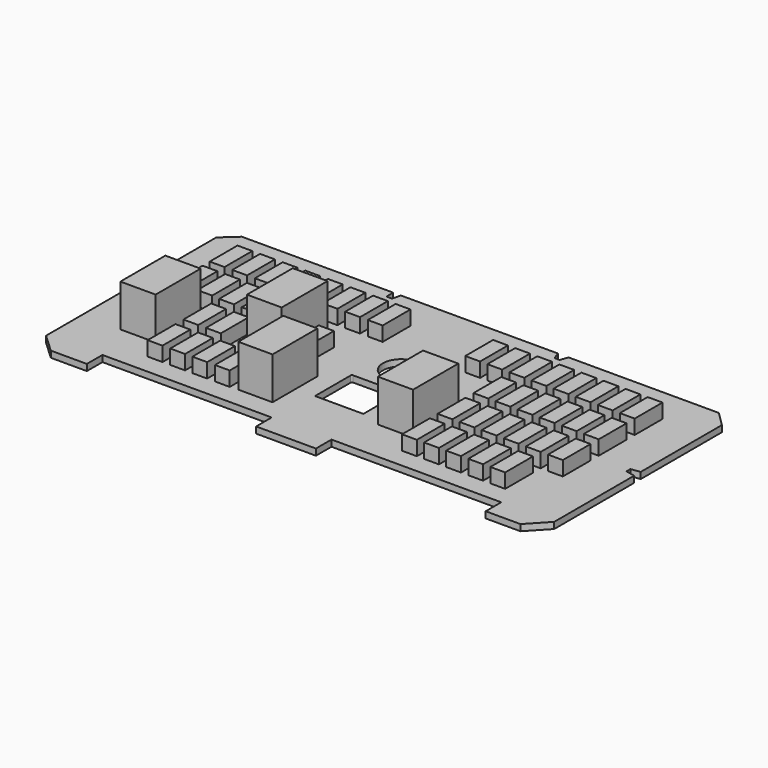
from build123d import *

# Parameters (mm, degrees)
F0_W     = 58.419227
F0_H     = 136.983085
F0_W_2   = 138.997555
F0_H_2   = 221.590325
F0_W_3   = 134.968639
F0_H_3   = 221.59028
F0_W_4   = 138.945207
F0_H_4   = 222.791448
F0_W_5   = 136.983097
F0_H_5   = 225.619205
F0_W_6   = 59.826314
F0_H_6   = 141.01921
F0_R     = 72.27809
F1_DEPTH = 25
F2_DEPTH = 82
F3_DEPTH = 191


with BuildPart() as f1:
    # F0 (on Top) → F1 (new body)
    with BuildSketch(Plane.XY):
        Polygon((-290.836811, 318.458557), (-887.116194, 318.458557), (-945.572436, 265.321642), (-945.572436, -134.427518), (-910.288393, -144.499809), (-910.288393, -161.622688), (-945.572436, -161.38947), (-945.572436, -572.571993), (-872.013628, -641.237497), (-729.988515, -641.237497), (-729.988515, -564.63474), (-63.203134, -564.63474), (-63.203134, -641.237497), (172.488362, -641.237497), (172.488362, -564.63474), (841.288209, -564.63474), (841.288209, -641.237497), (978.271306, -641.237497), (1050.024033, -564.63474), (1050.024033, -170.783788), (1013.263464, -163.161024), (1013.263464, -143.680587), (1050.024033, -138.59874), (1050.024033, 261.292726), (992.372513, 318.458557), (400.122046, 318.458557), (389.548242, 287.793189), (369.40366, 287.793189), (357.818455, 318.458557), (-260.619938, 318.458557), (-268.289, 284.986019), (-290.836811, 284.986019), align=None)
        with Locations((-585.227046, -417.791572)):
            Rectangle(F0_W, F0_H, mode=Mode.SUBTRACT)
        with Locations((-496.227045, -417.791572)):
            Rectangle(F0_W, F0_H, mode=Mode.SUBTRACT)
        with Locations((-409.227045, -417.791572)):
            Rectangle(F0_W, F0_H, mode=Mode.SUBTRACT)
        with Locations((-320.227045, -417.791572)):
            Rectangle(F0_W, F0_H, mode=Mode.SUBTRACT)
        with Locations((-723.563492, -286.638654)):
            Rectangle(F0_W_2, F0_H_2, mode=Mode.SUBTRACT)
        with Locations((-585.227046, -241.791573)):
            Rectangle(F0_W, F0_H, mode=Mode.SUBTRACT)
        with Locations((-496.227045, -241.791573)):
            Rectangle(F0_W, F0_H, mode=Mode.SUBTRACT)
        with Locations((-191.746771, -373.260319)):
            Rectangle(F0_W_3, F0_H_3, mode=Mode.SUBTRACT)
        with BuildLine():
            ThreePointArc((-48.252605, -193.939795), (-46.788139, -190.404261), (-43.252605, -188.939795))
            Line((-43.252605, -188.939795), (142.198145, -188.939795))
            Line((142.198145, -188.939795), (142.198145, -369.808108))
            Line((142.198145, -369.808108), (-48.252605, -369.808108))
            Line((-48.252605, -369.808108), (-48.252605, -193.939795))
        make_face(mode=Mode.SUBTRACT)
        with Locations((417.772954, -418.791572)):
            Rectangle(F0_W, F0_H, mode=Mode.SUBTRACT)
        with Locations((504.772954, -418.791572)):
            Rectangle(F0_W, F0_H, mode=Mode.SUBTRACT)
        with Locations((591.772954, -418.791572)):
            Rectangle(F0_W, F0_H, mode=Mode.SUBTRACT)
        with Locations((678.772954, -418.791572)):
            Rectangle(F0_W, F0_H, mode=Mode.SUBTRACT)
        with Locations((765.772954, -418.791572)):
            Rectangle(F0_W, F0_H, mode=Mode.SUBTRACT)
        with Locations((290.625192, -285.947375)):
            Rectangle(F0_W_4, F0_H_4, mode=Mode.SUBTRACT)
        with Locations((417.772954, -243.791573)):
            Rectangle(F0_W, F0_H, mode=Mode.SUBTRACT)
        with Locations((504.772954, -243.791573)):
            Rectangle(F0_W, F0_H, mode=Mode.SUBTRACT)
        with Locations((591.772954, -243.791573)):
            Rectangle(F0_W, F0_H, mode=Mode.SUBTRACT)
        with Locations((678.772954, -243.791573)):
            Rectangle(F0_W, F0_H, mode=Mode.SUBTRACT)
        with Locations((765.772954, -243.791573)):
            Rectangle(F0_W, F0_H, mode=Mode.SUBTRACT)
        with Locations((852.772954, -243.791573)):
            Rectangle(F0_W, F0_H, mode=Mode.SUBTRACT)
        with Locations((-763.227046, -61.791572)):
            Rectangle(F0_W, F0_H, mode=Mode.SUBTRACT)
        with Locations((-674.227046, -61.791572)):
            Rectangle(F0_W, F0_H, mode=Mode.SUBTRACT)
        with Locations((-585.227046, -65.791572)):
            Rectangle(F0_W, F0_H, mode=Mode.SUBTRACT)
        with Locations((-496.227045, -65.791572)):
            Rectangle(F0_W, F0_H, mode=Mode.SUBTRACT)
        with Locations((-365.997315, -109.366397)):
            Rectangle(F0_W_5, F0_H_5, mode=Mode.SUBTRACT)
        with Locations((-235.027611, -150.979929)):
            Rectangle(F0_W_6, F0_H_6, mode=Mode.SUBTRACT)
        with Locations((50.626427, -68.906955)):
            Circle(F0_R, mode=Mode.SUBTRACT)
        with Locations((-763.227046, 110.208427)):
            Rectangle(F0_W, F0_H, mode=Mode.SUBTRACT)
        with Locations((-674.227046, 110.208427)):
            Rectangle(F0_W, F0_H, mode=Mode.SUBTRACT)
        with Locations((-585.227046, 110.208427)):
            Rectangle(F0_W, F0_H, mode=Mode.SUBTRACT)
        with Locations((-496.227045, 110.208427)):
            Rectangle(F0_W, F0_H, mode=Mode.SUBTRACT)
        with Locations((-407.227045, 110.208427)):
            Rectangle(F0_W, F0_H, mode=Mode.SUBTRACT)
        with Locations((-318.227045, 110.208427)):
            Rectangle(F0_W, F0_H, mode=Mode.SUBTRACT)
        with Locations((-229.227045, 110.208427)):
            Rectangle(F0_W, F0_H, mode=Mode.SUBTRACT)
        with Locations((-140.227046, 110.208427)):
            Rectangle(F0_W, F0_H, mode=Mode.SUBTRACT)
        with Locations((417.772954, -66.791572)):
            Rectangle(F0_W, F0_H, mode=Mode.SUBTRACT)
        with Locations((504.772954, -66.791572)):
            Rectangle(F0_W, F0_H, mode=Mode.SUBTRACT)
        with Locations((591.772954, -66.791572)):
            Rectangle(F0_W, F0_H, mode=Mode.SUBTRACT)
        with Locations((678.772954, -66.791572)):
            Rectangle(F0_W, F0_H, mode=Mode.SUBTRACT)
        with Locations((765.772954, -66.791572)):
            Rectangle(F0_W, F0_H, mode=Mode.SUBTRACT)
        with Locations((852.772954, -66.791572)):
            Rectangle(F0_W, F0_H, mode=Mode.SUBTRACT)
        with Locations((243.772954, 110.208427)):
            Rectangle(F0_W, F0_H, mode=Mode.SUBTRACT)
        with Locations((330.772954, 110.208427)):
            Rectangle(F0_W, F0_H, mode=Mode.SUBTRACT)
        with Locations((417.772954, 110.208427)):
            Rectangle(F0_W, F0_H, mode=Mode.SUBTRACT)
        with Locations((504.772954, 110.208427)):
            Rectangle(F0_W, F0_H, mode=Mode.SUBTRACT)
        with Locations((591.772954, 110.208427)):
            Rectangle(F0_W, F0_H, mode=Mode.SUBTRACT)
        with Locations((678.772954, 110.208427)):
            Rectangle(F0_W, F0_H, mode=Mode.SUBTRACT)
        with Locations((765.772954, 110.208427)):
            Rectangle(F0_W, F0_H, mode=Mode.SUBTRACT)
        with Locations((852.772954, 110.208427)):
            Rectangle(F0_W, F0_H, mode=Mode.SUBTRACT)
    extrude(amount=F1_DEPTH)

    # F0 (on Top) → F2 (join)
    with BuildSketch(Plane.XY):
        with Locations((-763.227046, 110.208427)):
            Rectangle(F0_W, F0_H)
        with Locations((-674.227046, 110.208427)):
            Rectangle(F0_W, F0_H)
        with Locations((-585.227046, 110.208427)):
            Rectangle(F0_W, F0_H)
        with Locations((-496.227045, 110.208427)):
            Rectangle(F0_W, F0_H)
        with Locations((-407.227045, 110.208427)):
            Rectangle(F0_W, F0_H)
        with Locations((-318.227045, 110.208427)):
            Rectangle(F0_W, F0_H)
        with Locations((-229.227045, 110.208427)):
            Rectangle(F0_W, F0_H)
        with Locations((-140.227046, 110.208427)):
            Rectangle(F0_W, F0_H)
        with Locations((-763.227046, -61.791572)):
            Rectangle(F0_W, F0_H)
        with Locations((-674.227046, -61.791572)):
            Rectangle(F0_W, F0_H)
        with Locations((-585.227046, -65.791572)):
            Rectangle(F0_W, F0_H)
        with Locations((-496.227045, -65.791572)):
            Rectangle(F0_W, F0_H)
        with Locations((-585.227046, -241.791573)):
            Rectangle(F0_W, F0_H)
        with Locations((-496.227045, -241.791573)):
            Rectangle(F0_W, F0_H)
        with Locations((-235.027611, -150.979929)):
            Rectangle(F0_W_6, F0_H_6)
        with Locations((-585.227046, -417.791572)):
            Rectangle(F0_W, F0_H)
        with Locations((-496.227045, -417.791572)):
            Rectangle(F0_W, F0_H)
        with Locations((-409.227045, -417.791572)):
            Rectangle(F0_W, F0_H)
        with Locations((-320.227045, -417.791572)):
            Rectangle(F0_W, F0_H)
        with Locations((417.772954, -418.791572)):
            Rectangle(F0_W, F0_H)
        with Locations((504.772954, -418.791572)):
            Rectangle(F0_W, F0_H)
        with Locations((591.772954, -418.791572)):
            Rectangle(F0_W, F0_H)
        with Locations((678.772954, -418.791572)):
            Rectangle(F0_W, F0_H)
        with Locations((765.772954, -418.791572)):
            Rectangle(F0_W, F0_H)
        with Locations((417.772954, -243.791573)):
            Rectangle(F0_W, F0_H)
        with Locations((504.772954, -243.791573)):
            Rectangle(F0_W, F0_H)
        with Locations((591.772954, -243.791573)):
            Rectangle(F0_W, F0_H)
        with Locations((678.772954, -243.791573)):
            Rectangle(F0_W, F0_H)
        with Locations((765.772954, -243.791573)):
            Rectangle(F0_W, F0_H)
        with Locations((852.772954, -243.791573)):
            Rectangle(F0_W, F0_H)
        with Locations((852.772954, -66.791572)):
            Rectangle(F0_W, F0_H)
        with Locations((765.772954, -66.791572)):
            Rectangle(F0_W, F0_H)
        with Locations((678.772954, -66.791572)):
            Rectangle(F0_W, F0_H)
        with Locations((591.772954, -66.791572)):
            Rectangle(F0_W, F0_H)
        with Locations((504.772954, -66.791572)):
            Rectangle(F0_W, F0_H)
        with Locations((417.772954, -66.791572)):
            Rectangle(F0_W, F0_H)
        with Locations((852.772954, 110.208427)):
            Rectangle(F0_W, F0_H)
        with Locations((765.772954, 110.208427)):
            Rectangle(F0_W, F0_H)
        with Locations((678.772954, 110.208427)):
            Rectangle(F0_W, F0_H)
        with Locations((591.772954, 110.208427)):
            Rectangle(F0_W, F0_H)
        with Locations((504.772954, 110.208427)):
            Rectangle(F0_W, F0_H)
        with Locations((417.772954, 110.208427)):
            Rectangle(F0_W, F0_H)
        with Locations((330.772954, 110.208427)):
            Rectangle(F0_W, F0_H)
        with Locations((243.772954, 110.208427)):
            Rectangle(F0_W, F0_H)
    extrude(amount=F2_DEPTH)

    # F0 (on Top) → F3 (join)
    with BuildSketch(Plane.XY):
        with Locations((-723.563492, -286.638654)):
            Rectangle(F0_W_2, F0_H_2)
        with Locations((-365.997315, -109.366397)):
            Rectangle(F0_W_5, F0_H_5)
        with Locations((-191.746771, -373.260319)):
            Rectangle(F0_W_3, F0_H_3)
        with Locations((290.625192, -285.947375)):
            Rectangle(F0_W_4, F0_H_4)
    extrude(amount=F3_DEPTH)


solid = f1.part
